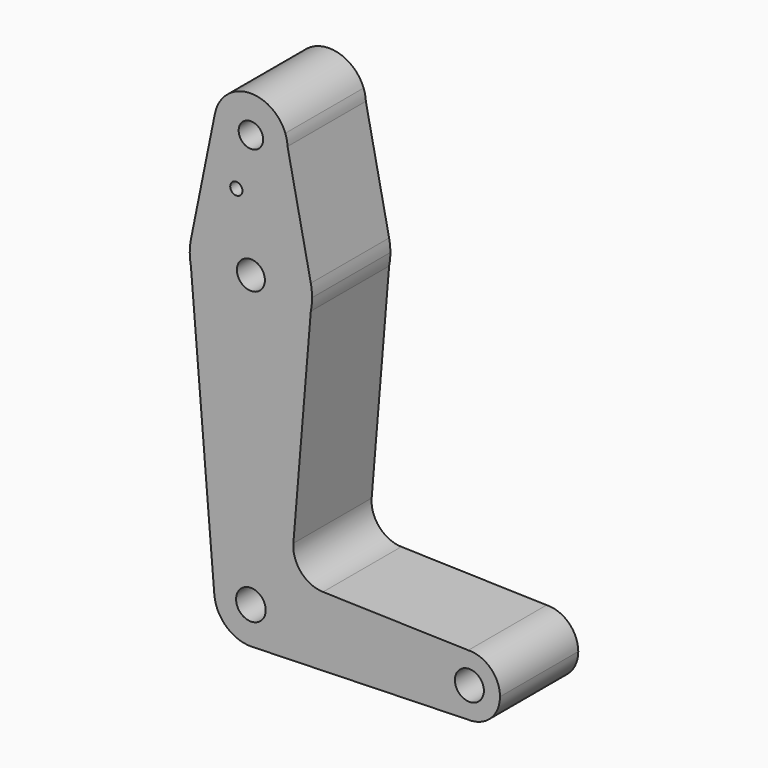
from build123d import *

# Parameters (mm, degrees)
F0_R     = 3.175
F0_R_2   = 1.5875
F0_R_3   = 3.6322314503
F0_R_4   = 3.8467274671
F0_R_5   = 3.7610876603
F1_DEPTH = 25.4


with BuildPart() as f1:
    # F0 (on Front) → F1 (new body)
    with BuildSketch(Plane.XZ):
        with BuildLine():
            Line((-24.4561174884, 59.5415251808), (-25.043618577, 62.3897581761))
            ThreePointArc((-25.043618577, 62.3897581761), (-34.7200415951, 68.5593504973), (-43.3064576753, 60.9455150164))
            ThreePointArc((-43.3064576753, 60.9455150164), (-34.9145682495, 49.5860318783), (-24.4441396248, 59.0639952522))
            ThreePointArc((-24.4441396248, 59.0639952522), (-24.4471345615, 59.3028353148), (-24.4561174884, 59.5415251808))
        make_face()
        with Locations((-33.9691396248, 59.0639952522)):
            Circle(F0_R, mode=Mode.SUBTRACT)
        with BuildLine():
            ThreePointArc((-24.4561174884, 59.5415251808), (-24.6405236242, 60.9881959987), (-25.043618577, 62.3897581761))
            Line((-25.043618577, 62.3897581761), (-24.4561174884, 59.5415251808))
        make_face()
        with BuildLine():
            ThreePointArc((-24.4441396248, 59.0639952522), (-34.9145682495, 49.5860318783), (-43.3064576753, 60.9455150164))
            Line((-43.3064576753, 60.9455150164), (-49.5281592655, 30.229745369))
            ThreePointArc((-49.5281592655, 30.229745369), (-33.9974170782, 42.9531280754), (-18.4214462904, 30.2851545043))
            Line((-18.4214462904, 30.2851545043), (-24.4561174884, 59.5415251808))
            ThreePointArc((-24.4561174884, 59.5415251808), (-24.4471345615, 59.3028353148), (-24.4441396248, 59.0639952522))
        make_face()
        with Locations((-37.7493202686, 45.5876301927)):
            Circle(F0_R_2, mode=Mode.SUBTRACT)
        with BuildLine():
            Line((-49.5281592655, 23.9265611512), (-49.5281592655, 30.229745369))
            ThreePointArc((-49.5281592655, 30.229745369), (-49.8441396248, 27.0781532601), (-49.5281592655, 23.9265611512))
        make_face()
        with BuildLine():
            ThreePointArc((-18.4214462904, 30.2851545043), (-33.9974170782, 42.9531280754), (-49.5281592655, 30.229745369))
            Line((-49.5281592655, 30.229745369), (-49.5281592655, 23.9265611512))
            ThreePointArc((-49.5281592655, 23.9265611512), (-33.9974170782, 11.2031784449), (-18.4214462904, 23.8711520159))
            Line((-18.4214462904, 23.8711520159), (-18.4214462904, 30.2851545043))
        make_face()
        with Locations((-33.9691396248, 27.0781532601)):
            Circle(F0_R_3, mode=Mode.SUBTRACT)
        with BuildLine():
            ThreePointArc((-18.0941396248, 27.0781532601), (-18.1761782704, 28.6899834802), (-18.4214462904, 30.2851545043))
            Line((-18.4214462904, 30.2851545043), (-18.4214462904, 23.8711520159))
            ThreePointArc((-18.4214462904, 23.8711520159), (-18.1761782704, 25.46632304), (-18.0941396248, 27.0781532601))
        make_face()
        with BuildLine():
            ThreePointArc((-18.4214462904, 23.8711520159), (-33.9974170782, 11.2031784449), (-49.5281592655, 23.9265611512))
            Line((-49.5281592655, 23.9265611512), (-43.4613710842, -49.0233816224))
            ThreePointArc((-43.4613710842, -49.0233816224), (-34.3641841471, -38.7171680607), (-24.4441396248, -48.2339723996))
            ThreePointArc((-24.4441396248, -48.2339723996), (-27.1396546252, -54.873532599), (-33.7005720953, -57.7551853728))
            Line((-33.7005720953, -57.7551853728), (22.533709302, -56.1689691977))
            ThreePointArc((22.533709302, -56.1689691977), (14.7956568571, -48.2773489112), (22.4469968379, -40.3016280732))
            Line((22.4469968379, -40.3016280732), (-15.2508893679, -39.2348500798))
            ThreePointArc((-15.2508893679, -39.2348500798), (-20.9512846708, -36.588466081), (-22.9489134239, -30.6296629928))
            Line((-22.9489134239, -30.6296629928), (-18.4214462904, 23.8711520159))
        make_face()
        with BuildLine():
            ThreePointArc((-24.4441396248, -48.2339723996), (-34.3641841471, -38.7171680607), (-43.4613710842, -49.0233816224))
            ThreePointArc((-43.4613710842, -49.0233816224), (-40.3197374909, -55.3329534351), (-33.7005720953, -57.7551853728))
            ThreePointArc((-33.7005720953, -57.7551853728), (-27.1396546252, -54.873532599), (-24.4441396248, -48.2339723996))
        make_face()
        with Locations((-33.9691396248, -48.2339723996)):
            Circle(F0_R_4, mode=Mode.SUBTRACT)
        with BuildLine():
            Line((23.3793439067, -56.1451161449), (22.533709302, -56.1689691977))
            ThreePointArc((22.533709302, -56.1689691977), (22.9568446097, -56.168316544), (23.3793439067, -56.1451161449))
        make_face()
        with BuildLine():
            ThreePointArc((22.4469968379, -40.3016280732), (14.7956568571, -48.2773489112), (22.533709302, -56.1689691977))
            Line((22.533709302, -56.1689691977), (23.3793439067, -56.1451161449))
            ThreePointArc((23.3793439067, -56.1451161449), (28.5697307514, -53.6132779206), (30.6705383351, -48.2339723996))
            ThreePointArc((30.6705383351, -48.2339723996), (28.2436395667, -42.5210764337), (22.4469968379, -40.3016280732))
        make_face()
        with Locations((22.7330383351, -48.2339723996)):
            Circle(F0_R_5, mode=Mode.SUBTRACT)
    extrude(amount=F1_DEPTH)


solid = f1.part
